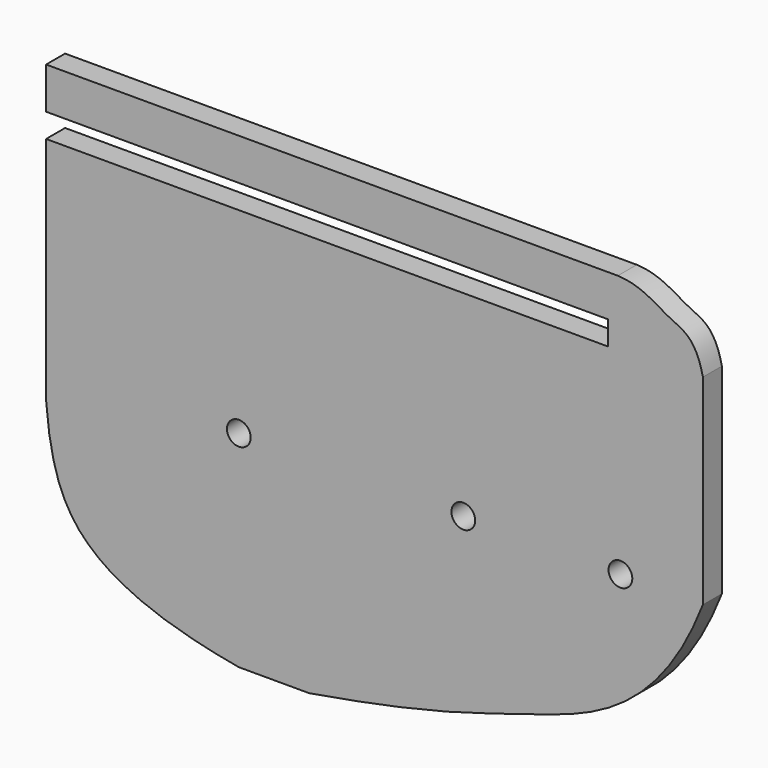
from build123d import *

# Parameters (mm, degrees)
F0_R     = 1.5875
F1_DEPTH = 3.175


with BuildPart() as f1:
    # F0 (on Front) → F1 (new body)
    with BuildSketch(Plane.XZ):
        with BuildLine():
            Line((50.6479330361, 35.0043736398), (-25.7624369115, 35.0043736398))
            Line((-25.7624369115, 35.0043736398), (-25.7624369115, 29.4499880035))
            Line((-25.7624369115, 29.4499880035), (49.3236098766, 29.4499880035))
            Line((49.3236098766, 29.4499880035), (49.3236098766, 26.2495880035))
            Line((49.3236098766, 26.2495880035), (-25.7624369115, 26.2495880035))
            Line((-25.7624369115, 26.2495880035), (-25.7624369115, -4.5141498558))
            add(Edge.make_bspline(
                [(-25.7624369115, -4.5141498558), (-25.1248944768, -12.7037227728), (-21.273135168, -21.6188524058), (-8.8106677914, -25.9740285807), (0, -27.5270994753)],
                knots=[0, 0, 0, 0, 0.4724743907, 1, 1, 1, 1], degree=3))
            Line((0, -27.5270994753), (9.4095226377, -27.5270994753))
            add(Edge.make_bspline(
                [(62.0236098766, 0), (55.9543529055, -15.5848842081), (37.0707330662, -20.5404116138), (26.281176066, -24.6812803242), (9.4095226377, -27.5270994753)],
                knots=[0, 0, 0, 0, 0.5005684884, 1, 1, 1, 1], degree=3))
            Line((62.0236098766, 0), (62.0236098766, 26.7810635269))
            add(Edge.make_bspline(
                [(50.6479330361, 35.0043736398), (53.7777307553, 34.8949537409), (57.5623068819, 31.7129061422), (61.0588998458, 31.1518883312), (62.0236098766, 26.7810635269)],
                knots=[0, 0, 0, 0, 0.5032416789, 1, 1, 1, 1], degree=3))
        make_face()
        with BuildLine():
            ThreePointArc((19.03225, -11.4771113499), (-22.225, 0), (19.03225, 11.4771113499))
            ThreePointArc((19.03225, 11.4771113499), (34.7094550243, 15.1603647177), (45.5403125, 3.2425780488))
            ThreePointArc((45.5403125, 3.2425780488), (52.681291821, 6.123377974), (57.35, 0))
            ThreePointArc((57.35, 0), (52.681291821, -6.123377974), (45.5403125, -3.2425780488))
            ThreePointArc((45.5403125, -3.2425780488), (34.7094550243, -15.1603647177), (19.03225, -11.4771113499))
        make_face(mode=Mode.SUBTRACT)
        with BuildLine():
            Line((50.6479330361, 35.0043736398), (-25.7624369115, 35.0043736398))
            Line((-25.7624369115, 35.0043736398), (-25.7624369115, 29.4499880035))
            Line((-25.7624369115, 29.4499880035), (49.3236098766, 29.4499880035))
            Line((49.3236098766, 29.4499880035), (49.3236098766, 26.2495880035))
            Line((49.3236098766, 26.2495880035), (-25.7624369115, 26.2495880035))
            Line((-25.7624369115, 26.2495880035), (-25.7624369115, -4.5141498558))
            add(Edge.make_bspline(
                [(-25.7624369115, -4.5141498558), (-25.1248944768, -12.7037227728), (-21.273135168, -21.6188524058), (-8.8106677914, -25.9740285807), (0, -27.5270994753)],
                knots=[0, 0, 0, 0, 0.4724743907, 1, 1, 1, 1], degree=3))
            Line((0, -27.5270994753), (9.4095226377, -27.5270994753))
            add(Edge.make_bspline(
                [(62.0236098766, 0), (55.9543529055, -15.5848842081), (37.0707330662, -20.5404116138), (26.281176066, -24.6812803242), (9.4095226377, -27.5270994753)],
                knots=[0, 0, 0, 0, 0.5005684884, 1, 1, 1, 1], degree=3))
            Line((62.0236098766, 0), (62.0236098766, 26.7810635269))
            add(Edge.make_bspline(
                [(50.6479330361, 35.0043736398), (53.7777307553, 34.8949537409), (57.5623068819, 31.7129061422), (61.0588998458, 31.1518883312), (62.0236098766, 26.7810635269)],
                knots=[0, 0, 0, 0, 0.5032416789, 1, 1, 1, 1], degree=3))
        make_face()
        with BuildLine():
            ThreePointArc((19.03225, -11.4771113499), (-22.225, 0), (19.03225, 11.4771113499))
            ThreePointArc((19.03225, 11.4771113499), (34.7094550243, 15.1603647177), (45.5403125, 3.2425780488))
            ThreePointArc((45.5403125, 3.2425780488), (52.681291821, 6.123377974), (57.35, 0))
            ThreePointArc((57.35, 0), (52.681291821, -6.123377974), (45.5403125, -3.2425780488))
            ThreePointArc((45.5403125, -3.2425780488), (34.7094550243, -15.1603647177), (19.03225, -11.4771113499))
        make_face(mode=Mode.SUBTRACT)
        with BuildLine():
            ThreePointArc((19.03225, -11.4771113499), (14.125, 0), (19.03225, 11.4771113499))
            ThreePointArc((19.03225, 11.4771113499), (-22.225, 0), (19.03225, -11.4771113499))
        make_face()
        Circle(F0_R, mode=Mode.SUBTRACT)
        with BuildLine():
            ThreePointArc((19.03225, 11.4771113499), (20.655434945, 8.2038790967), (21.7204166667, 4.7089409453))
            ThreePointArc((21.7204166667, 4.7089409453), (32.4354253992, 9.2083835783), (39.525, 0))
            ThreePointArc((39.525, 0), (32.4354253992, -9.2083835783), (21.7204166667, -4.7089409453))
            ThreePointArc((21.7204166667, -4.7089409453), (20.655434945, -8.2038790967), (19.03225, -11.4771113499))
            ThreePointArc((19.03225, -11.4771113499), (34.7094550243, -15.1603647177), (45.5403125, -3.2425780488))
            ThreePointArc((45.5403125, -3.2425780488), (44.65, 0), (45.5403125, 3.2425780488))
            ThreePointArc((45.5403125, 3.2425780488), (34.7094550243, 15.1603647177), (19.03225, 11.4771113499))
        make_face()
        with BuildLine():
            ThreePointArc((19.03225, 11.4771113499), (20.655434945, 8.2038790967), (21.7204166667, 4.7089409453))
            ThreePointArc((21.7204166667, 4.7089409453), (32.4354253992, 9.2083835783), (39.525, 0))
            ThreePointArc((39.525, 0), (32.4354253992, -9.2083835783), (21.7204166667, -4.7089409453))
            ThreePointArc((21.7204166667, -4.7089409453), (20.655434945, -8.2038790967), (19.03225, -11.4771113499))
            ThreePointArc((19.03225, -11.4771113499), (34.7094550243, -15.1603647177), (45.5403125, -3.2425780488))
            ThreePointArc((45.5403125, -3.2425780488), (44.65, 0), (45.5403125, 3.2425780488))
            ThreePointArc((45.5403125, 3.2425780488), (34.7094550243, 15.1603647177), (19.03225, 11.4771113499))
        make_face()
        with BuildLine():
            ThreePointArc((21.7204166667, 4.7089409453), (22.0984941276, 2.3679489631), (22.225, 0))
            ThreePointArc((22.225, 0), (22.0984941276, -2.3679489631), (21.7204166667, -4.7089409453))
            ThreePointArc((21.7204166667, -4.7089409453), (32.4354253992, -9.2083835783), (39.525, 0))
            ThreePointArc((39.525, 0), (32.4354253992, 9.2083835783), (21.7204166667, 4.7089409453))
        make_face()
        with Locations((30, 0)):
            Circle(F0_R, mode=Mode.SUBTRACT)
        with BuildLine():
            ThreePointArc((21.7204166667, 4.7089409453), (22.0984941276, 2.3679489631), (22.225, 0))
            ThreePointArc((22.225, 0), (22.0984941276, -2.3679489631), (21.7204166667, -4.7089409453))
            ThreePointArc((21.7204166667, -4.7089409453), (32.4354253992, -9.2083835783), (39.525, 0))
            ThreePointArc((39.525, 0), (32.4354253992, 9.2083835783), (21.7204166667, 4.7089409453))
        make_face()
        with Locations((30, 0)):
            Circle(F0_R, mode=Mode.SUBTRACT)
        with BuildLine():
            ThreePointArc((57.35, 0), (52.681291821, 6.123377974), (45.5403125, 3.2425780488))
            ThreePointArc((45.5403125, 3.2425780488), (45.7911064517, 1.6299024607), (45.875, 0))
            ThreePointArc((45.875, 0), (45.7911064517, -1.6299024607), (45.5403125, -3.2425780488))
            ThreePointArc((45.5403125, -3.2425780488), (52.681291821, -6.123377974), (57.35, 0))
        make_face()
        with Locations((51, 0)):
            Circle(F0_R, mode=Mode.SUBTRACT)
        with BuildLine():
            ThreePointArc((57.35, 0), (52.681291821, 6.123377974), (45.5403125, 3.2425780488))
            ThreePointArc((45.5403125, 3.2425780488), (45.7911064517, 1.6299024607), (45.875, 0))
            ThreePointArc((45.875, 0), (45.7911064517, -1.6299024607), (45.5403125, -3.2425780488))
            ThreePointArc((45.5403125, -3.2425780488), (52.681291821, -6.123377974), (57.35, 0))
        make_face()
        with Locations((51, 0)):
            Circle(F0_R, mode=Mode.SUBTRACT)
        with BuildLine():
            ThreePointArc((21.7204166667, -4.7089409453), (20.475, 0), (21.7204166667, 4.7089409453))
            ThreePointArc((21.7204166667, 4.7089409453), (20.655434945, 8.2038790967), (19.03225, 11.4771113499))
            ThreePointArc((19.03225, 11.4771113499), (14.125, 0), (19.03225, -11.4771113499))
            ThreePointArc((19.03225, -11.4771113499), (20.655434945, -8.2038790967), (21.7204166667, -4.7089409453))
        make_face()
        with BuildLine():
            ThreePointArc((21.7204166667, -4.7089409453), (20.475, 0), (21.7204166667, 4.7089409453))
            ThreePointArc((21.7204166667, 4.7089409453), (20.655434945, 8.2038790967), (19.03225, 11.4771113499))
            ThreePointArc((19.03225, 11.4771113499), (14.125, 0), (19.03225, -11.4771113499))
            ThreePointArc((19.03225, -11.4771113499), (20.655434945, -8.2038790967), (21.7204166667, -4.7089409453))
        make_face()
        with BuildLine():
            ThreePointArc((21.7204166667, -4.7089409453), (22.0984941276, -2.3679489631), (22.225, 0))
            ThreePointArc((22.225, 0), (22.0984941276, 2.3679489631), (21.7204166667, 4.7089409453))
            ThreePointArc((21.7204166667, 4.7089409453), (20.475, 0), (21.7204166667, -4.7089409453))
        make_face()
        with BuildLine():
            ThreePointArc((45.875, 0), (45.7911064517, 1.6299024607), (45.5403125, 3.2425780488))
            ThreePointArc((45.5403125, 3.2425780488), (44.65, 0), (45.5403125, -3.2425780488))
            ThreePointArc((45.5403125, -3.2425780488), (45.7911064517, -1.6299024607), (45.875, 0))
        make_face()
    extrude(amount=F1_DEPTH)


solid = f1.part
